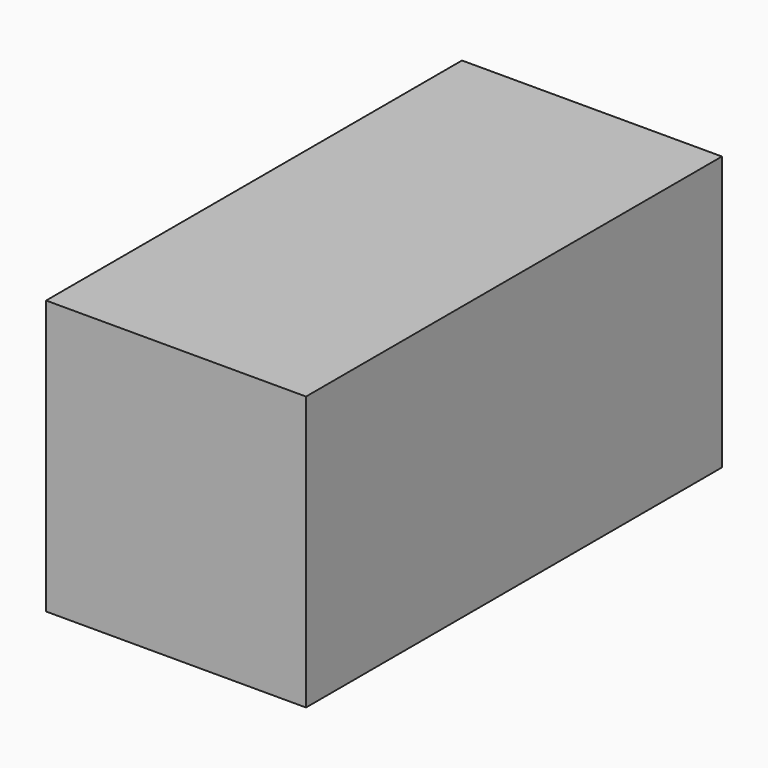
from build123d import *

# Parameters (mm, degrees)
F0_W      = 63.5
F0_H      = 66.879551
F1_DEPTH  = 127
F1_FACE_W = 63.5
F1_FACE_H = 127
F2_DEPTH  = 25


with BuildPart() as f1:
    # F0 (on Front) → F1 (new body)
    with BuildSketch(Plane.XZ):
        with Locations((14.127321, 26.338828)):
            Rectangle(F0_W, F0_H)
    extrude(amount=F1_DEPTH)

    # F1_face (on face) → F2 (join)
    with BuildSketch(Plane(origin=(14.127321, -63.5, 59.778604), x_dir=(1, 0, 0), z_dir=(0, 0, 1))):
        Rectangle(F1_FACE_W, F1_FACE_H)
    extrude(amount=-F2_DEPTH)


solid = f1.part
